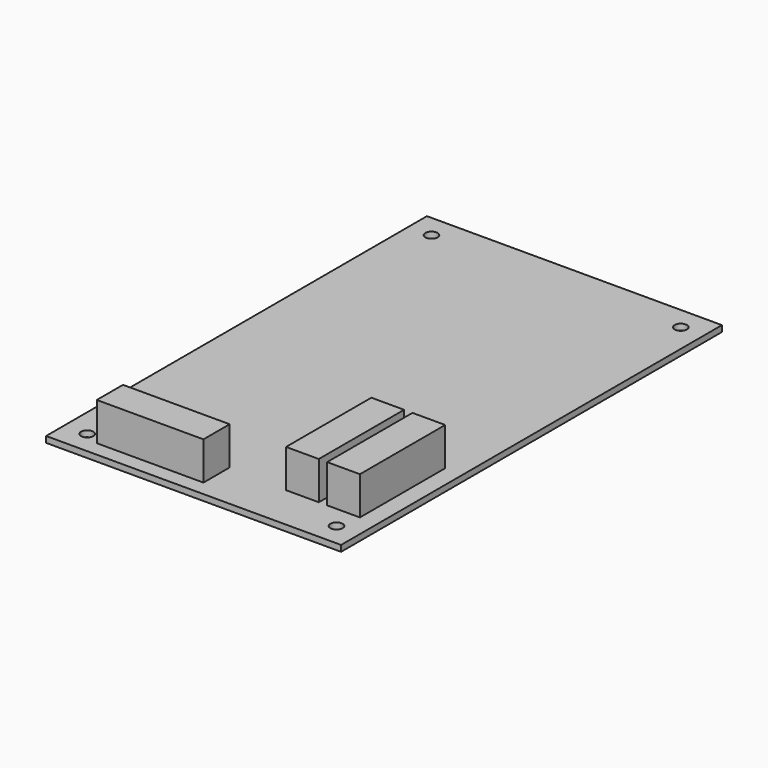
from build123d import *

# Parameters (mm, degrees)
SKETCH009_W      = 28
SKETCH009_H      = 8.6
SKETCH009_W_2    = 8.6
SKETCH009_H_2    = 28
EXTRUDE009_DEPTH = 10
SKETCH008_W      = 77.455
SKETCH008_H      = 125
SKETCH008_R      = 1.6
EXTRUDE008_DEPTH = 1.6


with BuildPart() as extrude009:
    # Sketch009 (on Face10 of Extrude008) → Extrude009 (new body)
    with BuildSketch(Plane.XY.offset(39.6)):
        with Locations((24.13, 93.285)):
            Rectangle(SKETCH009_W, SKETCH009_H)
        with Locations((57.755, 110.94)):
            Rectangle(SKETCH009_W_2, SKETCH009_H_2)
        with Locations((68.55, 110.94)):
            Rectangle(SKETCH009_W_2, SKETCH009_H_2)
    extrude(amount=EXTRUDE009_DEPTH)


with BuildPart() as clock:
    # Sketch008 → Extrude008 (new body)
    with BuildSketch(Plane.XY.offset(38)):
        with Locations((38.7275, 147.5)):
            Rectangle(SKETCH008_W, SKETCH008_H)
        with Locations((6, 204)):
            Circle(SKETCH008_R, mode=Mode.SUBTRACT)
        with Locations((6, 91)):
            Circle(SKETCH008_R, mode=Mode.SUBTRACT)
        with Locations((71.455, 91)):
            Circle(SKETCH008_R, mode=Mode.SUBTRACT)
        with Locations((71.455, 204)):
            Circle(SKETCH008_R, mode=Mode.SUBTRACT)
    extrude(amount=EXTRUDE008_DEPTH)

    # Fusion: union Extrude009
    add(extrude009.part)


solid = clock.part
